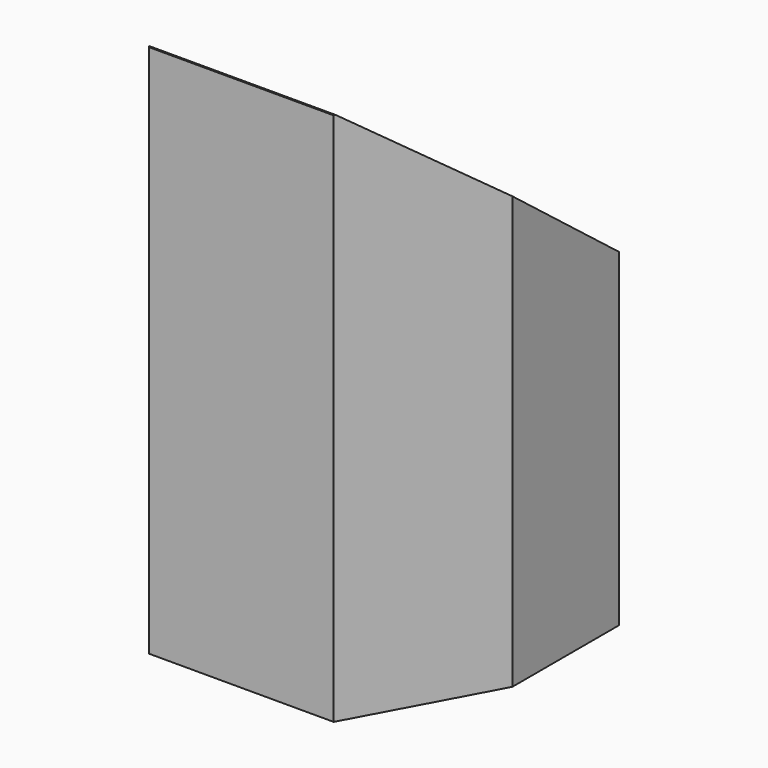
from build123d import *

# Parameters (mm, degrees)
F1_DEPTH = 1320.8
F3_DEPTH = 812.801


with BuildPart() as f1:
    # F0 (on Top) → F1 (new body)
    with BuildSketch(Plane.XY):
        Polygon((812.8, 0), (0, 0), (0, -330.2), (177.8, -660.4), (635, -660.4), (812.8, -330.2), align=None)
    extrude(amount=F1_DEPTH)

    # F2 (on face) → F3 (cut, through all)
    with BuildSketch(Plane.YZ.offset(812.8)):
        Polygon((0, 1320.8), (-660.393178, 1323.801782), (0, 812.8), align=None)
    extrude(amount=-F3_DEPTH, mode=Mode.SUBTRACT)


solid = f1.part
